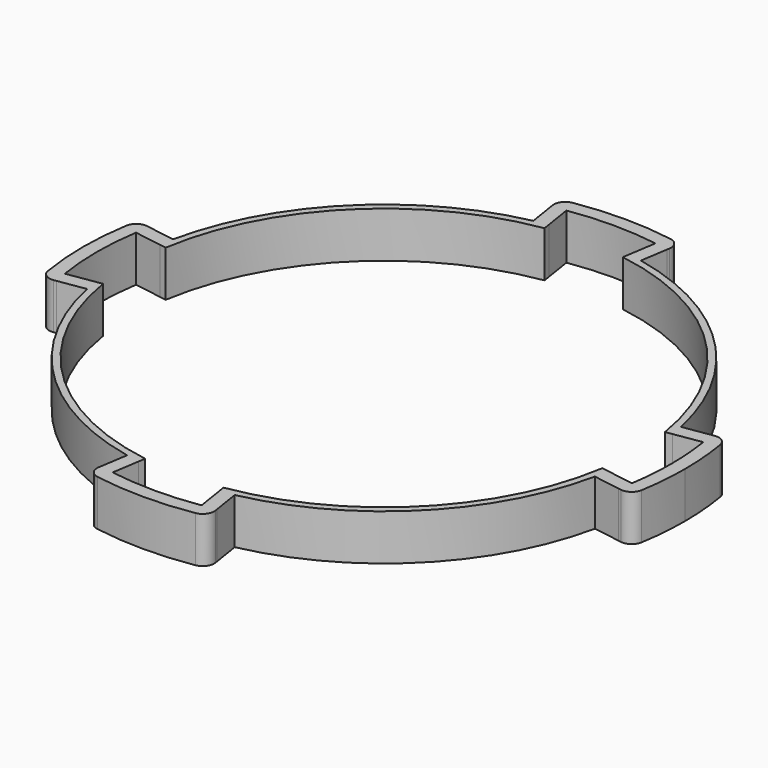
from build123d import *

# Parameters (mm, degrees)
F1_DEPTH = 8
F2_R     = 2


with BuildPart() as f1:
    # F0 (on Top) → F1 (new body)
    with BuildSketch(Plane.XY):
        with BuildLine():
            ThreePointArc((49.3957234991, 7.75), (49.8487019638, 3.8867611867), (50, 0))
            ThreePointArc((50, 0), (49.8487019638, -3.8867611867), (49.3957234991, -7.75))
            ThreePointArc((49.3957234991, -7.75), (49.1954336536, -8.9336055229), (48.9667868112, -10.1120615795))
            Line((48.9667868112, -10.1120615795), (51.3403921319, -10.4844711715))
            ThreePointArc((51.3403921319, -10.4844711715), (52.1344250362, -5.2689397553), (52.4, 0))
            ThreePointArc((52.4, 0), (52.1344250362, 5.2689397553), (51.3403921319, 10.4844711715))
            Line((51.3403921319, 10.4844711715), (48.9667868112, 10.1120615795))
            ThreePointArc((48.9667868112, 10.1120615795), (49.1954336536, 8.9336055229), (49.3957234991, 7.75))
        make_face()
        with BuildLine():
            ThreePointArc((7.75, 49.3957234991), (8.9336055229, 49.1954336536), (10.1120615795, 48.9667868112))
            Line((10.1120615795, 48.9667868112), (10.4844711715, 51.3403921319))
            ThreePointArc((10.4844711715, 51.3403921319), (0, 52.4), (-10.4844711715, 51.3403921319))
            Line((-10.4844711715, 51.3403921319), (-10.1120615795, 48.9667868112))
            ThreePointArc((-10.1120615795, 48.9667868112), (-8.9336055229, 49.1954336536), (-7.75, 49.3957234991))
            ThreePointArc((-7.75, 49.3957234991), (0, 50), (7.75, 49.3957234991))
        make_face()
        with BuildLine():
            Line((-48.9667868112, 10.1120615795), (-51.3403921319, 10.4844711715))
            ThreePointArc((-51.3403921319, 10.4844711715), (-52.4, 0), (-51.3403921319, -10.4844711715))
            Line((-51.3403921319, -10.4844711715), (-48.9667868112, -10.1120615795))
            ThreePointArc((-48.9667868112, -10.1120615795), (-49.1954336536, -8.9336055229), (-49.3957234991, -7.75))
            ThreePointArc((-49.3957234991, -7.75), (-50, 0), (-49.3957234991, 7.75))
            ThreePointArc((-49.3957234991, 7.75), (-49.1954336536, 8.9336055229), (-48.9667868112, 10.1120615795))
        make_face()
        with BuildLine():
            Line((10.4844711715, -51.3403921319), (10.1120615795, -48.9667868112))
            ThreePointArc((10.1120615795, -48.9667868112), (8.9336055229, -49.1954336536), (7.75, -49.3957234991))
            ThreePointArc((7.75, -49.3957234991), (0, -50), (-7.75, -49.3957234991))
            ThreePointArc((-7.75, -49.3957234991), (-8.9336055229, -49.1954336536), (-10.1120615795, -48.9667868112))
            Line((-10.1120615795, -48.9667868112), (-10.4844711715, -51.3403921319))
            ThreePointArc((-10.4844711715, -51.3403921319), (0, -52.4), (10.4844711715, -51.3403921319))
        make_face()
        with BuildLine():
            Line((-7.006, 44.6537340432), (-7.75, 49.3957234991))
            ThreePointArc((-7.75, 49.3957234991), (-8.9336055229, 49.1954336536), (-10.1120615795, 48.9667868112))
            Line((-10.1120615795, 48.9667868112), (-9.3671116509, 44.218742851))
            ThreePointArc((-9.3671116509, 44.218742851), (-8.1894444633, 44.4519178369), (-7.006, 44.6537340432))
        make_face()
        with BuildLine():
            ThreePointArc((-43.4682366792, 6.82), (-31.1126983722, 31.1126983722), (-6.82, 43.4682366792))
            Line((-6.82, 43.4682366792), (-7.006, 44.6537340432))
            ThreePointArc((-7.006, 44.6537340432), (-8.1894444633, 44.4519178369), (-9.3671116509, 44.218742851))
            ThreePointArc((-9.3671116509, 44.218742851), (-31.9612265096, 31.9612265096), (-44.218742851, 9.3671116509))
            ThreePointArc((-44.218742851, 9.3671116509), (-44.4519178369, 8.1894444633), (-44.6537340432, 7.006))
            Line((-44.6537340432, 7.006), (-43.4682366792, 6.82))
        make_face()
        with BuildLine():
            Line((9.3671116509, 44.218742851), (10.1120615795, 48.9667868112))
            ThreePointArc((10.1120615795, 48.9667868112), (8.9336055229, 49.1954336536), (7.75, 49.3957234991))
            Line((7.75, 49.3957234991), (7.006, 44.6537340432))
            ThreePointArc((7.006, 44.6537340432), (8.1894444633, 44.4519178369), (9.3671116509, 44.218742851))
        make_face()
        with BuildLine():
            Line((43.4682366792, 6.82), (44.6537340432, 7.006))
            ThreePointArc((44.6537340432, 7.006), (44.4519178369, 8.1894444633), (44.218742851, 9.3671116509))
            ThreePointArc((44.218742851, 9.3671116509), (31.9612265096, 31.9612265096), (9.3671116509, 44.218742851))
            ThreePointArc((9.3671116509, 44.218742851), (8.1894444633, 44.4519178369), (7.006, 44.6537340432))
            Line((7.006, 44.6537340432), (6.82, 43.4682366792))
            ThreePointArc((6.82, 43.4682366792), (31.1126983722, 31.1126983722), (43.4682366792, 6.82))
        make_face()
        with BuildLine():
            Line((44.6537340432, 7.006), (49.3957234991, 7.75))
            ThreePointArc((49.3957234991, 7.75), (49.1954336536, 8.9336055229), (48.9667868112, 10.1120615795))
            Line((48.9667868112, 10.1120615795), (44.218742851, 9.3671116509))
            ThreePointArc((44.218742851, 9.3671116509), (44.4519178369, 8.1894444633), (44.6537340432, 7.006))
        make_face()
        with BuildLine():
            ThreePointArc((48.9667868112, -10.1120615795), (49.1954336536, -8.9336055229), (49.3957234991, -7.75))
            Line((49.3957234991, -7.75), (44.6537340432, -7.006))
            ThreePointArc((44.6537340432, -7.006), (44.4519178369, -8.1894444633), (44.218742851, -9.3671116509))
            Line((44.218742851, -9.3671116509), (48.9667868112, -10.1120615795))
        make_face()
        with BuildLine():
            Line((-44.218742851, 9.3671116509), (-48.9667868112, 10.1120615795))
            ThreePointArc((-48.9667868112, 10.1120615795), (-49.1954336536, 8.9336055229), (-49.3957234991, 7.75))
            Line((-49.3957234991, 7.75), (-44.6537340432, 7.006))
            ThreePointArc((-44.6537340432, 7.006), (-44.4519178369, 8.1894444633), (-44.218742851, 9.3671116509))
        make_face()
        with BuildLine():
            Line((-7.006, -44.6537340432), (-6.82, -43.4682366792))
            ThreePointArc((-6.82, -43.4682366792), (-31.1126983722, -31.1126983722), (-43.4682366792, -6.82))
            Line((-43.4682366792, -6.82), (-44.6537340432, -7.006))
            ThreePointArc((-44.6537340432, -7.006), (-44.4519178369, -8.1894444633), (-44.218742851, -9.3671116509))
            ThreePointArc((-44.218742851, -9.3671116509), (-31.9612265096, -31.9612265096), (-9.3671116509, -44.218742851))
            ThreePointArc((-9.3671116509, -44.218742851), (-8.1894444633, -44.4519178369), (-7.006, -44.6537340432))
        make_face()
        with BuildLine():
            ThreePointArc((-49.3957234991, -7.75), (-49.1954336536, -8.9336055229), (-48.9667868112, -10.1120615795))
            Line((-48.9667868112, -10.1120615795), (-44.218742851, -9.3671116509))
            ThreePointArc((-44.218742851, -9.3671116509), (-44.4519178369, -8.1894444633), (-44.6537340432, -7.006))
            Line((-44.6537340432, -7.006), (-49.3957234991, -7.75))
        make_face()
        with BuildLine():
            ThreePointArc((44.218742851, -9.3671116509), (44.4519178369, -8.1894444633), (44.6537340432, -7.006))
            Line((44.6537340432, -7.006), (43.4682366792, -6.82))
            ThreePointArc((43.4682366792, -6.82), (31.1126983722, -31.1126983722), (6.82, -43.4682366792))
            Line((6.82, -43.4682366792), (7.006, -44.6537340432))
            ThreePointArc((7.006, -44.6537340432), (8.1894444633, -44.4519178369), (9.3671116509, -44.218742851))
            ThreePointArc((9.3671116509, -44.218742851), (31.9612265096, -31.9612265096), (44.218742851, -9.3671116509))
        make_face()
        with BuildLine():
            ThreePointArc((7.75, -49.3957234991), (8.9336055229, -49.1954336536), (10.1120615795, -48.9667868112))
            Line((10.1120615795, -48.9667868112), (9.3671116509, -44.218742851))
            ThreePointArc((9.3671116509, -44.218742851), (8.1894444633, -44.4519178369), (7.006, -44.6537340432))
            Line((7.006, -44.6537340432), (7.75, -49.3957234991))
        make_face()
        with BuildLine():
            ThreePointArc((-10.1120615795, -48.9667868112), (-8.9336055229, -49.1954336536), (-7.75, -49.3957234991))
            Line((-7.75, -49.3957234991), (-7.006, -44.6537340432))
            ThreePointArc((-7.006, -44.6537340432), (-8.1894444633, -44.4519178369), (-9.3671116509, -44.218742851))
            Line((-9.3671116509, -44.218742851), (-10.1120615795, -48.9667868112))
        make_face()
    extrude(amount=F1_DEPTH)

    # F2
    f2_edges = [f1.edges().sort_by_distance(p)[0] for p in [
        (-51.340392, -10.484471, 4),
        (-51.340392, 10.484471, 4),
        (-10.484471, 51.340392, 4),
        (10.484471, 51.340392, 4),
        (51.340392, -10.484471, 4),
        (51.340392, 10.484471, 4),
        (10.484471, -51.340392, 4),
        (-10.484471, -51.340392, 4),
    ]]
    fillet(f2_edges, radius=F2_R)


solid = f1.part
